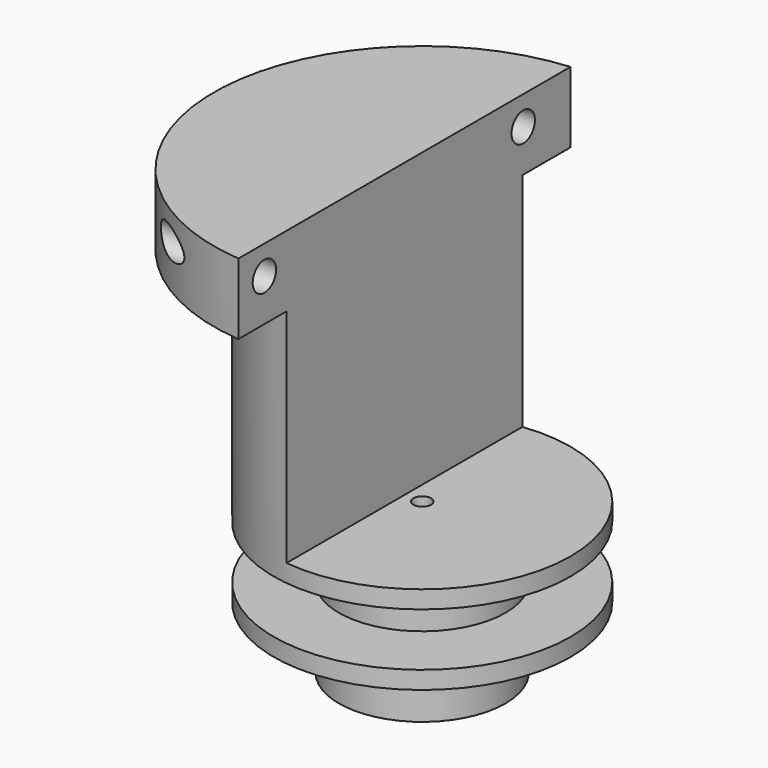
from build123d import *

# Parameters (mm, degrees)
CYLINDER013_R     = 9.4
CYLINDER013_DEPTH = 6
CYLINDER014_R     = 16.75
CYLINDER014_DEPTH = 6
CYLINDER011_R     = 1
CYLINDER011_DEPTH = 100
CYLINDER006_R     = 9.4
CYLINDER006_DEPTH = 7
CYLINDER010_R     = 1.65
CYLINDER010_DEPTH = 100
CYLINDER009_R     = 1.65
CYLINDER009_DEPTH = 100
BOX003_W          = 50
BOX003_H          = 100
BOX003_DEPTH      = 100
CYLINDER012_R     = 23.5
CYLINDER012_DEPTH = 8
CYLINDER008_R     = 16.75
CYLINDER008_DEPTH = 43
CYLINDER007_R     = 16.75
CYLINDER007_DEPTH = 10


with BuildPart() as zylinder013:
    # Cylinder013 → Cylinder013 (new body)
    with BuildSketch(Plane.XY.offset(12)):
        Circle(CYLINDER013_R)
    extrude(amount=CYLINDER013_DEPTH)


with BuildPart() as cut006:
    # Cylinder014 → Cylinder014 (new body)
    with BuildSketch(Plane.XY.offset(12)):
        Circle(CYLINDER014_R)
    extrude(amount=CYLINDER014_DEPTH)

    # Cut006: cut Zylinder013
    add(zylinder013.part, mode=Mode.SUBTRACT)


with BuildPart() as zylinder011:
    # Cylinder011 → Cylinder011 (new body)
    with BuildSketch(Plane.XY.offset(5)):
        Circle(CYLINDER011_R)
    extrude(amount=CYLINDER011_DEPTH)


with BuildPart() as zylinder006:
    # Cylinder006 → Cylinder006 (new body)
    with BuildSketch(Plane.XY.offset(3)):
        Circle(CYLINDER006_R)
    extrude(amount=CYLINDER006_DEPTH)


with BuildPart() as zylinder010:
    # Cylinder010 → Cylinder010 (new body)
    with BuildSketch(Plane(origin=(-31, 16.75, 49.75), x_dir=(0, 0, -1), z_dir=(1, 0, 0))):
        Circle(CYLINDER010_R)
    extrude(amount=CYLINDER010_DEPTH)


with BuildPart() as compound003:
    # Cylinder009 → Cylinder009 (new body)
    with BuildSketch(Plane(origin=(-31, -19.75, 49.75), x_dir=(0, 0, -1), z_dir=(1, 0, 0))):
        Circle(CYLINDER009_R)
    extrude(amount=CYLINDER009_DEPTH)

    # Compound003: union Zylinder010
    add(zylinder010.part)


with BuildPart() as obj1:
    # Box003 → Box003 (new body)
    with BuildSketch(Plane(origin=(-2, -25, 0), x_dir=(1, 0, 0), z_dir=(0, 0, 1))):
        with Locations((25, 50)):
            Rectangle(BOX003_W, BOX003_H)
    extrude(amount=BOX003_DEPTH)


with BuildPart() as zylinder012:
    # Cylinder012 → Cylinder012 (new body)
    with BuildSketch(Plane.XY.offset(45)):
        Circle(CYLINDER012_R)
    extrude(amount=CYLINDER012_DEPTH)


with BuildPart() as cut004:
    # Cylinder008 → Cylinder008 (new body)
    with BuildSketch(Plane.XY.offset(10)):
        Circle(CYLINDER008_R)
    extrude(amount=CYLINDER008_DEPTH)

    # Fusion: union Zylinder012
    add(zylinder012.part)

    # Cut003: cut obj1
    add(obj1.part, mode=Mode.SUBTRACT)

    # Cut004: cut Compound003
    add(compound003.part, mode=Mode.SUBTRACT)


with BuildPart() as cut007:
    # Cylinder007 → Cylinder007 (new body)
    with BuildSketch(Plane.XY.offset(10)):
        Circle(CYLINDER007_R)
    extrude(amount=CYLINDER007_DEPTH)

    # Fusion001: union Zylinder006, Cut004
    add(zylinder006.part)
    add(cut004.part)

    # Cut005: cut Zylinder011
    add(zylinder011.part, mode=Mode.SUBTRACT)

    # Cut007: cut Cut006
    add(cut006.part, mode=Mode.SUBTRACT)


solid = cut007.part
